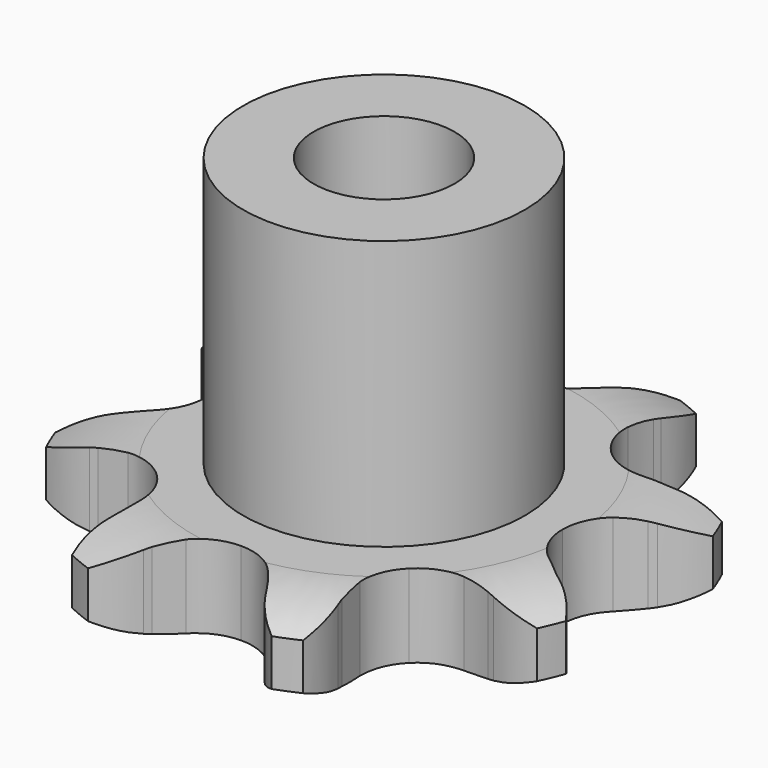
from build123d import *

# Parameters (mm, degrees)
PAD_DEPTH         = 5.9
SKETCH001_R       = 10
PAD001_DEPTH      = 25
SKETCH002_R       = 5
POCKET_DEPTH      = 0.001
POCKET_DEPTH_BACK = -25.001


with BuildPart() as part:
    # Sprocket → Pad (new body)
    with BuildSketch(Plane.XY):
        with BuildLine():
            ThreePointArc((-7.750718, 18.711888), (-5.807188, 17.609119), (-4.336956, 15.926317))
            Line((-4.336956, 15.926317), (-4.068236, 15.487805))
            ThreePointArc((-4.068236, 15.487805), (-3.521035, 14.684133), (-2.899325, 13.936608))
            ThreePointArc((-2.899325, 13.936608), (-1.583791, 12.99391), (0, 12.660875))
            ThreePointArc((0, 12.660875), (1.583791, 12.99391), (2.899325, 13.936608))
            ThreePointArc((2.899325, 13.936608), (3.521035, 14.684133), (4.068236, 15.487805))
            Line((4.068236, 15.487805), (4.336956, 15.926317))
            ThreePointArc((4.336956, 15.926317), (5.807188, 17.609119), (7.750718, 18.711888))
            ThreePointArc((7.750718, 18.711888), (8.345226, 16.557829), (8.194916, 14.328297))
            Line((8.194916, 14.328297), (8.074855, 13.828209))
            ThreePointArc((8.074855, 13.828209), (7.893503, 12.872998), (7.804538, 11.904802))
            ThreePointArc((7.804538, 11.904802), (8.068172, 10.307992), (8.95259, 8.95259))
            ThreePointArc((8.95259, 8.95259), (10.307992, 8.068172), (11.904802, 7.804538))
            Line((11.904802, 7.804538), (13.828209, 8.074855))
            ThreePointArc((13.828209, 8.074855), (14.077491, 8.138059), (14.328297, 8.194916))
            ThreePointArc((14.328297, 8.194916), (16.557829, 8.345226), (18.711888, 7.750718))
            ThreePointArc((18.711888, 7.750718), (17.609119, 5.807188), (15.926317, 4.336956))
            Line((15.926317, 4.336956), (15.487805, 4.068236))
            ThreePointArc((15.487805, 4.068236), (14.684133, 3.521035), (13.936608, 2.899325))
            ThreePointArc((13.936608, 2.899325), (12.99391, 1.583791), (12.660875, 0))
            ThreePointArc((12.660875, 0), (12.99391, -1.583791), (13.936608, -2.899325))
            Line((13.936608, -2.899325), (15.487805, -4.068236))
            ThreePointArc((15.487805, -4.068236), (15.708766, -4.199813), (15.926317, -4.336956))
            ThreePointArc((15.926317, -4.336956), (17.609119, -5.807188), (18.711888, -7.750718))
            ThreePointArc((18.711888, -7.750718), (16.557829, -8.345226), (14.328297, -8.194916))
            Line((14.328297, -8.194916), (13.828209, -8.074855))
            ThreePointArc((13.828209, -8.074855), (12.872998, -7.893503), (11.904802, -7.804538))
            ThreePointArc((11.904802, -7.804538), (10.307992, -8.068172), (8.95259, -8.95259))
            ThreePointArc((8.95259, -8.95259), (8.068172, -10.307992), (7.804538, -11.904802))
            Line((7.804538, -11.904802), (8.074855, -13.828209))
            ThreePointArc((8.074855, -13.828209), (8.138059, -14.077491), (8.194916, -14.328297))
            ThreePointArc((8.194916, -14.328297), (8.345226, -16.557829), (7.750718, -18.711888))
            ThreePointArc((7.750718, -18.711888), (5.807188, -17.609119), (4.336956, -15.926317))
            Line((4.336956, -15.926317), (4.068236, -15.487805))
            ThreePointArc((4.068236, -15.487805), (3.521035, -14.684133), (2.899325, -13.936608))
            ThreePointArc((2.899325, -13.936608), (1.583791, -12.99391), (0, -12.660875))
            ThreePointArc((0, -12.660875), (-1.583791, -12.99391), (-2.899325, -13.936608))
            Line((-2.899325, -13.936608), (-4.068236, -15.487805))
            ThreePointArc((-4.068236, -15.487805), (-4.199813, -15.708766), (-4.336956, -15.926317))
            ThreePointArc((-4.336956, -15.926317), (-5.807188, -17.609119), (-7.750718, -18.711888))
            ThreePointArc((-7.750718, -18.711888), (-8.345226, -16.557829), (-8.194916, -14.328297))
            Line((-8.194916, -14.328297), (-8.074855, -13.828209))
            ThreePointArc((-8.074855, -13.828209), (-7.893503, -12.872998), (-7.804538, -11.904802))
            ThreePointArc((-7.804538, -11.904802), (-8.068172, -10.307992), (-8.95259, -8.95259))
            ThreePointArc((-8.95259, -8.95259), (-10.307992, -8.068172), (-11.904802, -7.804538))
            Line((-11.904802, -7.804538), (-13.828209, -8.074855))
            ThreePointArc((-13.828209, -8.074855), (-14.077491, -8.138059), (-14.328297, -8.194916))
            ThreePointArc((-14.328297, -8.194916), (-16.557829, -8.345226), (-18.711888, -7.750718))
            ThreePointArc((-18.711888, -7.750718), (-17.609119, -5.807188), (-15.926317, -4.336956))
            Line((-15.926317, -4.336956), (-15.487805, -4.068236))
            ThreePointArc((-15.487805, -4.068236), (-14.684133, -3.521035), (-13.936608, -2.899325))
            ThreePointArc((-13.936608, -2.899325), (-12.99391, -1.583791), (-12.660875, 0))
            ThreePointArc((-12.660875, 0), (-12.99391, 1.583791), (-13.936608, 2.899325))
            Line((-13.936608, 2.899325), (-15.487805, 4.068236))
            ThreePointArc((-15.487805, 4.068236), (-15.708766, 4.199813), (-15.926317, 4.336956))
            ThreePointArc((-15.926317, 4.336956), (-17.609119, 5.807188), (-18.711888, 7.750718))
            ThreePointArc((-18.711888, 7.750718), (-16.557829, 8.345226), (-14.328297, 8.194916))
            Line((-14.328297, 8.194916), (-13.828209, 8.074855))
            ThreePointArc((-13.828209, 8.074855), (-12.872998, 7.893503), (-11.904802, 7.804538))
            ThreePointArc((-11.904802, 7.804538), (-10.307992, 8.068172), (-8.95259, 8.95259))
            ThreePointArc((-8.95259, 8.95259), (-8.068172, 10.307992), (-7.804538, 11.904802))
            Line((-7.804538, 11.904802), (-8.074855, 13.828209))
            ThreePointArc((-8.074855, 13.828209), (-8.138059, 14.077491), (-8.194916, 14.328297))
            ThreePointArc((-8.194916, 14.328297), (-8.345226, 16.557829), (-7.750718, 18.711888))
        make_face()
    extrude(amount=PAD_DEPTH)

    # Sketch → Groove (revolve, cut)
    with BuildSketch(Plane.XZ):
        with BuildLine():
            Line((13.583431, 0), (19.25, 0))
            Line((24.916569, 0), (19.25, 0))
            Line((24.916569, 5.9), (24.916569, 0))
            Line((19.25, 5.9), (24.916569, 5.9))
            Line((13.583431, 5.9), (19.25, 5.9))
            ThreePointArc((19.25, 4.6), (16.49032, 5.570833), (13.583431, 5.9))
            Line((19.25, 1.3), (19.25, 4.6))
            ThreePointArc((13.583431, 0), (16.49032, 0.329167), (19.25, 1.3))
        make_face()
    revolve(axis=Axis((0, 0, 0), (0, 0, 1)), mode=Mode.SUBTRACT)

    # Sketch001 → Pad001 (join)
    with BuildSketch(Plane.XY):
        Circle(SKETCH001_R)
    extrude(amount=PAD001_DEPTH)

    # Sketch002 → Pocket (cut, two sides)
    with BuildSketch(Plane.XY) as pocket_sk:
        Circle(SKETCH002_R)
    extrude(amount=-POCKET_DEPTH, mode=Mode.SUBTRACT)
    extrude(pocket_sk.sketch, amount=-POCKET_DEPTH_BACK, mode=Mode.SUBTRACT)


solid = part.part
